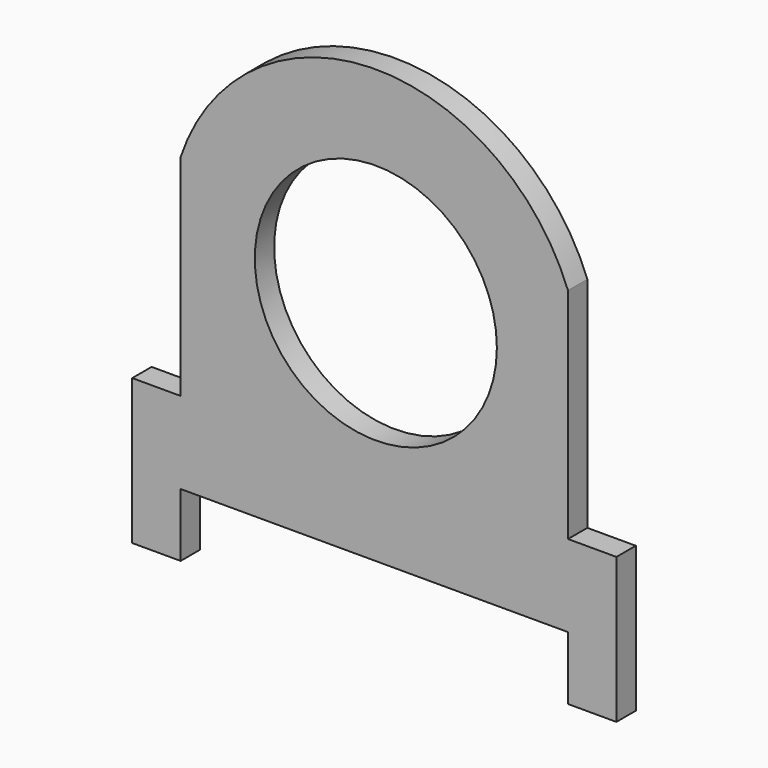
from build123d import *

# Parameters (mm, degrees)
F0_R     = 12.5
F1_DEPTH = 2.5


with BuildPart() as f1:
    # F0 (on Front) → F1 (new body)
    with BuildSketch(Plane.XZ):
        with BuildLine():
            Line((-5, 0), (0, 0))
            Line((0, 0), (0, 15))
            Line((0, 15), (-5, 15))
            Line((-5, 15), (-5, 37.600264))
            ThreePointArc((-5, 37.600264), (-25.3058, 51.244989), (-45, 36.731459))
            Line((-45, 36.731459), (-45, 15))
            Line((-45, 15), (-50, 15))
            Line((-50, 15), (-50, 0))
            Line((-50, 0), (-45, 0))
            Line((-45, 0), (-45, 6.541304))
            Line((-45, 6.541304), (-5, 6.541304))
            Line((-5, 6.541304), (-5, 0))
        make_face()
        with Locations((-24.844357, 30)):
            Circle(F0_R, mode=Mode.SUBTRACT)
    extrude(amount=F1_DEPTH)


solid = f1.part
